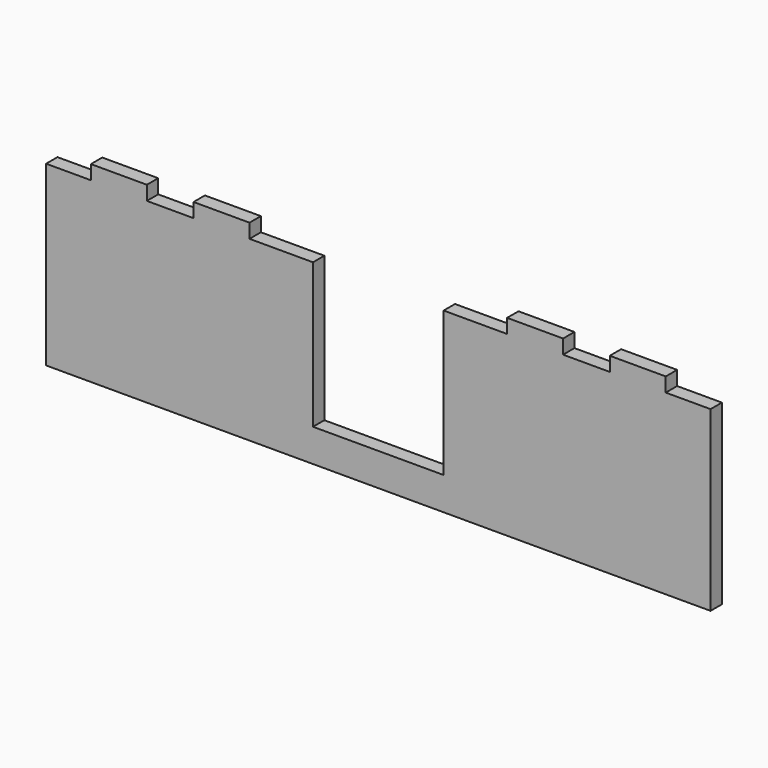
from build123d import *

# Parameters (mm, degrees)
F0_W     = 15
F0_H     = 3.81
F1_DEPTH = 3.81


with BuildPart() as f1:
    # F0 (on Front) → F1 (new body)
    with BuildSketch(Plane.XZ):
        Polygon((89, -23.79), (89, 23.79), (77, 23.79), (62, 23.79), (49.5, 23.79), (34.5, 23.79), (17.5, 23.79), (17.5, 0), (17.5, -15), (0, -15), (0, -23.79), align=None)
        Polygon((-89, -23.79), (0, -23.79), (0, -15), (-17.5, -15), (-17.5, 0), (-17.5, 23.79), (-34.5, 23.79), (-49.5, 23.79), (-62, 23.79), (-77, 23.79), (-89, 23.79), align=None)
        with Locations((-69.5, 25.695)):
            Rectangle(F0_W, F0_H)
        with Locations((-42, 25.695)):
            Rectangle(F0_W, F0_H)
        with Locations((42, 25.695)):
            Rectangle(F0_W, F0_H)
        with Locations((69.5, 25.695)):
            Rectangle(F0_W, F0_H)
    extrude(amount=F1_DEPTH)


solid = f1.part
